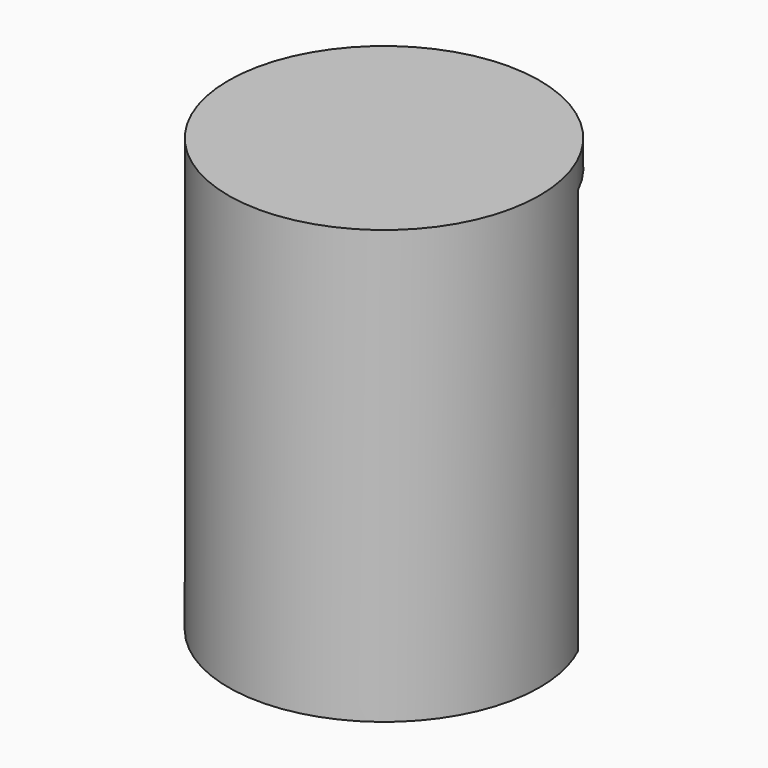
from build123d import *

# Parameters (mm, degrees)
F0_R      = 115
F1_DEPTH  = 20
F2_R      = 115
F2_R_2    = 113.5
F3_DEPTH  = 300
F4_R      = 72
F4_R_2    = 70.5
F5_DEPTH  = 200
F6_R      = 50.5
F6_R_2    = 49
F7_DEPTH  = 150
F8_R      = 93.5
F8_R_2    = 92
F9_DEPTH  = 250
F11_DEPTH = 300
F13_DEPTH = 250
F15_DEPTH = 200
F17_DEPTH = 150


with BuildPart() as f1:
    # F0 (on Top) → F1 (new body)
    with BuildSketch(Plane.XY):
        Circle(F0_R)
    extrude(amount=F1_DEPTH)

    # F2 (on face) → F3 (join)
    with BuildSketch(Plane(origin=(0, 0, 0), x_dir=(1, 0, 0), z_dir=(0, 0, -1))):
        Circle(F2_R)
        Circle(F2_R_2, mode=Mode.SUBTRACT)
    extrude(amount=F3_DEPTH)

    # F4 (on face) → F5 (join)
    with BuildSketch(Plane(origin=(0, 0, 0), x_dir=(1, 0, 0), z_dir=(0, 0, -1))):
        Circle(F4_R)
        Circle(F4_R_2, mode=Mode.SUBTRACT)
    extrude(amount=F5_DEPTH)

    # F6 (on face) → F7 (join)
    with BuildSketch(Plane(origin=(0, 0, 0), x_dir=(1, 0, 0), z_dir=(0, 0, -1))):
        Circle(F6_R)
        Circle(F6_R_2, mode=Mode.SUBTRACT)
    extrude(amount=F7_DEPTH)

    # F8 (on face) → F9 (join)
    with BuildSketch(Plane(origin=(0, 0, 0), x_dir=(1, 0, 0), z_dir=(0, 0, -1))):
        Circle(F8_R)
        Circle(F8_R_2, mode=Mode.SUBTRACT)
    extrude(amount=F9_DEPTH)

    # F10 (on face) → F11 (cut)
    with BuildSketch(Plane(origin=(0, 0, -300), x_dir=(1, 0, 0), z_dir=(0, 0, -1))):
        with BuildLine():
            Line((-102.1050381255, -49.5662303328), (-103.3925876319, -50.3485136104))
            ThreePointArc((-103.3925876319, -50.3485136104), (0.4342578791, -114.9991800844), (103.7698839288, -49.5662303328))
            Line((103.7698839288, -49.5662303328), (102.1050381255, -49.5662303328))
            ThreePointArc((102.1050381255, -49.5662303328), (0, -113.5), (-102.1050381255, -49.5662303328))
        make_face()
    extrude(amount=-F11_DEPTH, mode=Mode.SUBTRACT)

    # F12 (on face) → F13 (cut)
    with BuildSketch(Plane(origin=(0, 0, -250), x_dir=(1, 0, 0), z_dir=(0, 0, -1))):
        with BuildLine():
            ThreePointArc((-49.3462659465, 79.4178571679), (-55.0925678888, -75.5450790152), (90.6993695659, -22.7128677261))
            Line((90.6993695659, -22.7128677261), (89.1522609902, -22.7128677261))
            ThreePointArc((89.1522609902, -22.7128677261), (-53.9825837089, -74.4975211408), (-49.3462659465, 77.6462879804))
            Line((-49.3462659465, 77.6462879804), (-49.3462659465, 79.4178571679))
        make_face()
    extrude(amount=-F13_DEPTH, mode=Mode.SUBTRACT)

    # F14 (on face) → F15 (cut)
    with BuildSketch(Plane(origin=(0, 0, -200), x_dir=(1, 0, 0), z_dir=(0, 0, -1))):
        with BuildLine():
            Line((-66.1720512268, -24.3209711245), (-67.7679154435, -24.3209711245))
            ThreePointArc((-67.7679154435, -24.3209711245), (12.3432185443, -70.9340888147), (72, 0))
            ThreePointArc((72, 0), (57.1551603856, 43.7868432442), (18.742009964, 69.5178902334))
            Line((18.742009964, 69.5178902334), (18.742009964, 67.96313017))
            ThreePointArc((18.742009964, 67.96313017), (56.0872610423, 42.713805131), (70.5, 0))
            ThreePointArc((70.5, 0), (12.3515259889, -69.4095800718), (-66.1720512268, -24.3209711245))
        make_face()
    extrude(amount=-F15_DEPTH, mode=Mode.SUBTRACT)

    # F16 (on face) → F17 (cut)
    with BuildSketch(Plane(origin=(0, 0, -150), x_dir=(1, 0, 0), z_dir=(0, 0, -1))):
        with BuildLine():
            ThreePointArc((50.5, 0), (0, 50.5), (-50.5, 0))
            Line((-50.5, 0), (-49, 0))
            ThreePointArc((-49, 0), (0, 49), (49, 0))
            Line((49, 0), (50.5, 0))
        make_face()
    extrude(amount=-F17_DEPTH, mode=Mode.SUBTRACT)


solid = f1.part
